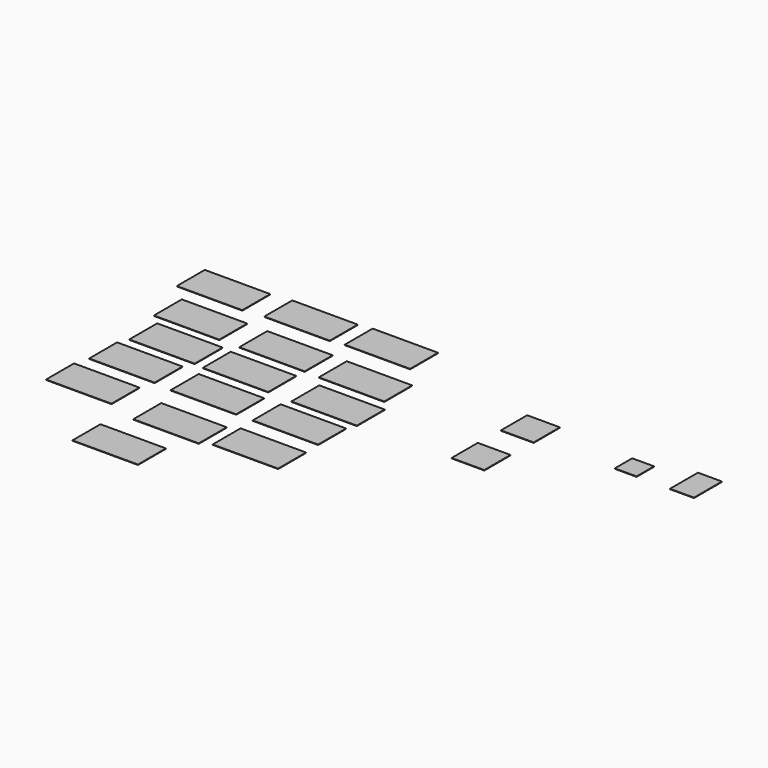
from build123d import *

# Parameters (mm, degrees)
F0_W     = 1500
F0_H     = 800
F0_W_2   = 750
F0_H_2   = 750
F0_W_3   = 550
F0_W_4   = 500
F0_H_3   = 500
F1_DEPTH = 10


with BuildPart() as f1:
    # F0 (on Top) → F1 (new body)
    with BuildSketch(Plane.XY):
        with Locations((-1591.556549, 522.63397)):
            Rectangle(F0_W, F0_H)
        with Locations((632.66176, -2845.69788)):
            Rectangle(F0_W, F0_H)
        with Locations((2330.099583, -1547.635674)):
            Rectangle(F0_W, F0_H)
        with Locations((-1454.754591, -1502.034903)):
            Rectangle(F0_W, F0_H)
        with Locations((-22.89401, 1726.491213)):
            Rectangle(F0_W, F0_H)
        with Locations((2352.477789, -2722.853899)):
            Rectangle(F0_W, F0_H)
        with Locations((451.352745, -1547.635674)):
            Rectangle(F0_W, F0_H)
        with Locations((294.840783, -4166.270733)):
            Rectangle(F0_W, F0_H)
        with Locations((2411.810443, -541.817158)):
            Rectangle(F0_W, F0_H)
        with Locations((359.781027, -514.456779)):
            Rectangle(F0_W, F0_H)
        with Locations((1782.89175, 1772.091866)):
            Rectangle(F0_W, F0_H)
        with Locations((369.702592, 518.02052)):
            Rectangle(F0_W, F0_H)
        with Locations((2211.537838, 495.27359)):
            Rectangle(F0_W, F0_H)
        with Locations((-1354.803398, -477.976322)):
            Rectangle(F0_W, F0_H)
        with Locations((-1547.819376, -2620.483637)):
            Rectangle(F0_W, F0_H)
        with Locations((-1983.722091, 1671.770453)):
            Rectangle(F0_W, F0_H)
        with Locations((5665.36979, 902.126635)):
            Rectangle(F0_W_2, F0_H_2)
        with Locations((5644.093781, -485.699509)):
            Rectangle(F0_W_2, F0_H_2)
        with Locations((9342.354481, 1048.865904)):
            Rectangle(F0_W_3, F0_H)
        with Locations((8051.267426, 898.865904)):
            Rectangle(F0_W_4, F0_H_3)
    extrude(amount=F1_DEPTH)


solid = f1.part
